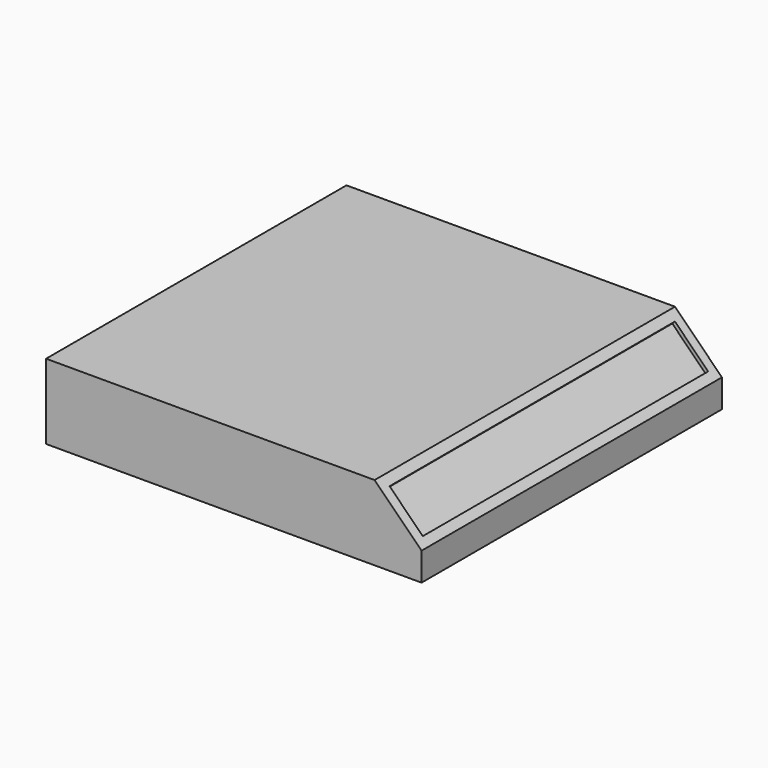
from build123d import *

# Parameters (mm, degrees)
PAD_DEPTH    = 100
SKETCH001_W  = 25
SKETCH001_H  = 190
POCKET_DEPTH = 2


with BuildPart() as part:
    # Sketch → Pad (new body, symmetric)
    with BuildSketch(Plane.XZ):
        Polygon((-100, 40), (-100, 0), (100, 0), (100, 15), (75, 40), align=None)
    extrude(amount=PAD_DEPTH, both=True)

    # Sketch001 (on DatumPlane) → Pocket (cut)
    with BuildSketch(Plane(origin=(100, -100, 15), x_dir=(-0.707107, 0, 0.707107), z_dir=(0.707107, 0, 0.707107))):
        with Locations((17.5, -100.241764)):
            Rectangle(SKETCH001_W, SKETCH001_H)
    extrude(amount=-POCKET_DEPTH, mode=Mode.SUBTRACT)


solid = part.part
